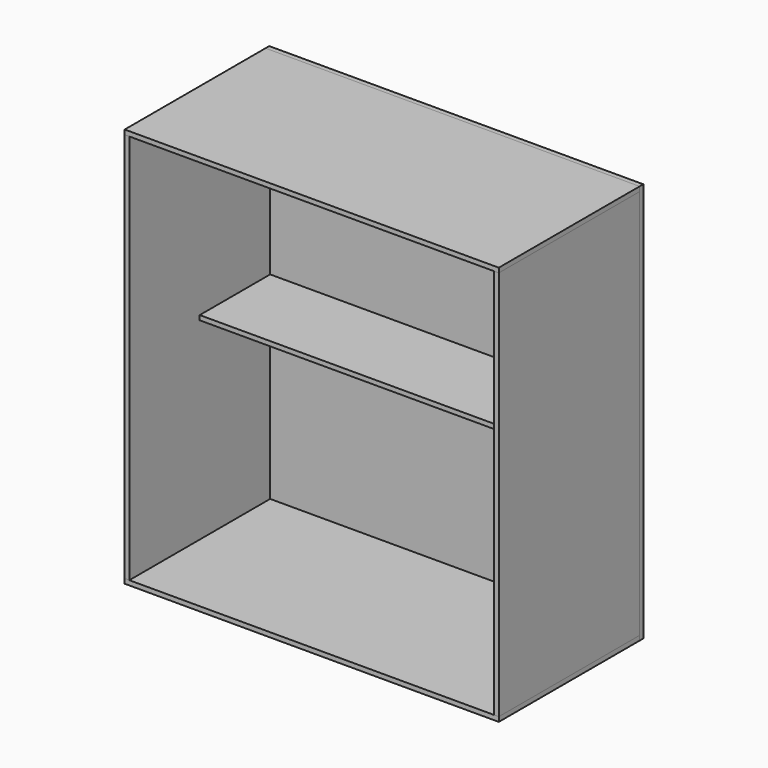
from build123d import *

# Parameters (mm, degrees)
F1_W      = 255
F1_H      = 120
F2_DEPTH  = 3.15
F3_W      = 120
F3_H      = 266.3
F4_DEPTH  = 3.15
F5_W      = 248.7
F5_H      = 3.15
F6_DEPTH  = 120
F9_W      = 255
F9_H      = 272.6
F10_DEPTH = 3.15
F11_W     = 248.7
F11_H     = 60
F12_DEPTH = 25


with BuildPart() as f2:
    # F1 (on Top) → F2 (new body)
    with BuildSketch(Plane.XY):
        with Locations((127.5, 60)):
            Rectangle(F1_W, F1_H)
    extrude(amount=F2_DEPTH)


with BuildPart() as f4:
    # F3 (on face) → F4 (new body)
    with BuildSketch(Plane(origin=(0, 0, 0), x_dir=(0, -1, 0), z_dir=(-1, 0, 0))):
        with Locations((-60, 136.3)):
            Rectangle(F3_W, F3_H)
    extrude(amount=-F4_DEPTH)


with BuildPart() as f6:
    # F5 (on face) → F6 (new body, through all)
    with BuildSketch(Plane.XZ):
        with Locations((127.5, 136.3)):
            Rectangle(F5_W, F5_H)
    extrude(amount=-F6_DEPTH)

    # F11 (on face) → F12 (cut)
    with BuildSketch(Plane.XY.offset(137.875)):
        with Locations((127.5, 30)):
            Rectangle(F11_W, F11_H)
    extrude(amount=-F12_DEPTH, mode=Mode.SUBTRACT)


with BuildPart() as f7_1:
    # F7: copy of F2
    add(f2.part.moved(Location((0, 0, 269.45))))


with BuildPart() as f8_1:
    # F8: copy of F4
    add(f4.part.moved(Location((251.85, 0, 0))))


with BuildPart() as f10:
    # F9 (on face) → F10 (new body)
    with BuildSketch(Plane(origin=(0, 120, 0), x_dir=(-1, 0, 0), z_dir=(0, 1, 0))):
        with Locations((-127.5, 136.3)):
            Rectangle(F9_W, F9_H)
    extrude(amount=F10_DEPTH)


solid = Compound([f2.part, f4.part, f6.part, f7_1.part, f8_1.part, f10.part])
